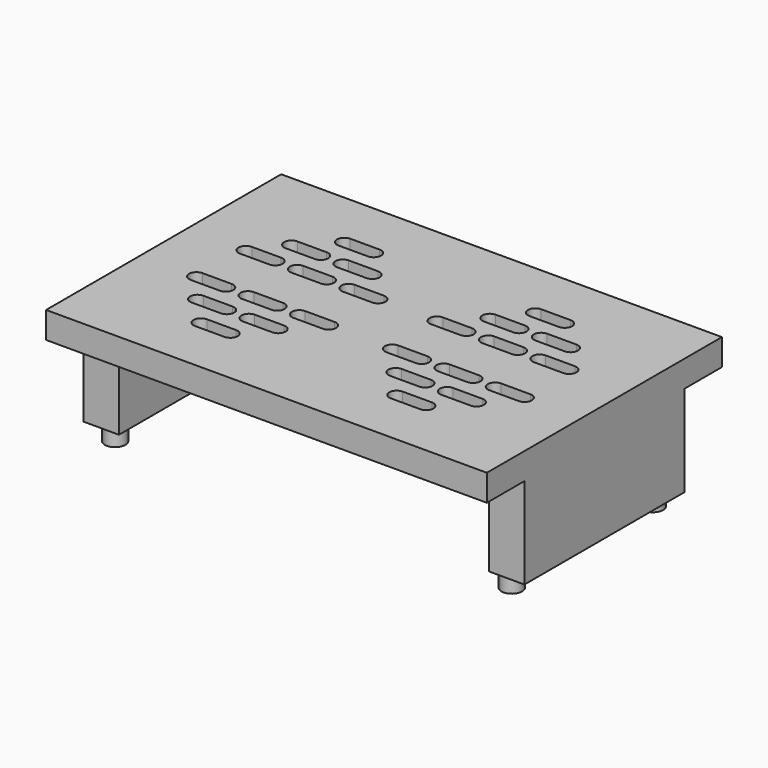
from build123d import *

# Parameters (mm, degrees)
SKETCH_W        = 150
SKETCH_H        = 100
PAD_DEPTH       = 40
SKETCH001_R     = 3.5
PAD001_DEPTH    = 5
SKETCH002_W     = 16
SKETCH002_H     = 31
POCKET_DEPTH    = 150
SKETCH003_W     = 126
SKETCH003_H     = 26
POCKET001_DEPTH = 100
POCKET002_DEPTH = 17
POCKET003_DEPTH = 18


with BuildPart() as part:
    # Sketch → Pad (new body)
    with BuildSketch(Plane.XY):
        Rectangle(SKETCH_W, SKETCH_H)
    extrude(amount=PAD_DEPTH)

    # Sketch001 (on Face5 of Pad) → Pad001 (join)
    with BuildSketch(Plane(origin=(0, 0, 0), x_dir=(1, 0, 0), z_dir=(0, 0, -1))):
        with Locations((67.5, 30)):
            Circle(SKETCH001_R)
        with Locations((67.5, -30)):
            Circle(SKETCH001_R)
        with Locations((-67.5, -30)):
            Circle(SKETCH001_R)
        with Locations((-67.5, 30)):
            Circle(SKETCH001_R)
    extrude(amount=PAD001_DEPTH)

    # Sketch002 (on Face3 of Pad001) → Pocket (cut)
    with BuildSketch(Plane.YZ.offset(75)):
        with Locations((42, 15.5)):
            Rectangle(SKETCH002_W, SKETCH002_H)
        with Locations((-42, 15.5)):
            Rectangle(SKETCH002_W, SKETCH002_H)
    extrude(amount=-POCKET_DEPTH, mode=Mode.SUBTRACT)

    # Sketch003 (on Face8 of Pocket) → Pocket001 (cut)
    with BuildSketch(Plane.XZ.offset(34)):
        with Locations((0, 13)):
            Rectangle(SKETCH003_W, SKETCH003_H)
    extrude(amount=-POCKET001_DEPTH, mode=Mode.SUBTRACT)

    # Sketch004 (on Face4 of Pocket001) → Pocket002 (cut)
    with BuildSketch(Plane.XY.offset(40)):
        with BuildLine():
            ThreePointArc((37.5, 22.5), (35, 20), (37.5, 17.5))
            Line((37.5, 17.5), (47.5, 17.5))
            ThreePointArc((47.5, 17.5), (50, 20), (47.5, 22.5))
            Line((47.5, 22.5), (37.5, 22.5))
        make_face()
        with BuildLine():
            ThreePointArc((45, 12.5), (42.5, 10), (45, 7.5))
            Line((45, 7.5), (55, 7.5))
            ThreePointArc((55, 7.5), (57.5, 10), (55, 12.5))
            Line((55, 12.5), (45, 12.5))
        make_face()
        with BuildLine():
            ThreePointArc((27.5, 32.5), (25, 30), (27.5, 27.5))
            Line((27.5, 27.5), (37.5, 27.5))
            ThreePointArc((37.5, 27.5), (40, 30), (37.5, 32.5))
            Line((37.5, 32.5), (27.5, 32.5))
        make_face()
        with BuildLine():
            ThreePointArc((20, 22.5), (17.5, 20), (20, 17.5))
            Line((20, 17.5), (30, 17.5))
            ThreePointArc((30, 17.5), (32.5, 20), (30, 22.5))
            Line((30, 22.5), (20, 22.5))
        make_face()
        with BuildLine():
            ThreePointArc((10, 12.5), (7.5, 10), (10, 7.5))
            Line((10, 7.5), (20, 7.5))
            ThreePointArc((20, 7.5), (22.5, 10), (20, 12.5))
            Line((20, 12.5), (10, 12.5))
        make_face()
        with BuildLine():
            ThreePointArc((27.5, 12.5), (25, 10), (27.5, 7.5))
            Line((27.5, 7.5), (37.5, 7.5))
            ThreePointArc((37.5, 7.5), (40, 10), (37.5, 12.5))
            Line((37.5, 12.5), (27.5, 12.5))
        make_face()
    pocket002 = extrude(amount=-POCKET002_DEPTH, mode=Mode.SUBTRACT)

    # Sketch005 (on Face4 of Pocket002) → Pocket003 (cut)
    with BuildSketch(Plane.XY.offset(40)):
        with BuildLine():
            ThreePointArc((10.816809, -7.5), (8.316809, -10), (10.816809, -12.5))
            Line((10.816809, -12.5), (20.816809, -12.5))
            ThreePointArc((20.816809, -12.5), (23.316809, -10), (20.816809, -7.5))
            Line((20.816809, -7.5), (10.816809, -7.5))
        make_face()
        with BuildLine():
            ThreePointArc((28.316809, -7.5), (25.816809, -10), (28.316809, -12.5))
            Line((28.316809, -12.5), (38.316809, -12.5))
            ThreePointArc((38.316809, -12.5), (40.816809, -10), (38.316809, -7.5))
            Line((38.316809, -7.5), (28.316809, -7.5))
        make_face()
        with BuildLine():
            ThreePointArc((45.816809, -7.5), (43.316809, -10), (45.816809, -12.5))
            Line((45.816809, -12.5), (55.816809, -12.5))
            ThreePointArc((55.816809, -12.5), (58.316809, -10), (55.816809, -7.5))
            Line((55.816809, -7.5), (45.816809, -7.5))
        make_face()
        with BuildLine():
            ThreePointArc((20, -17.5), (17.5, -20), (20, -22.5))
            Line((20, -22.5), (30, -22.5))
            ThreePointArc((30, -22.5), (32.5, -20), (30, -17.5))
            Line((30, -17.5), (20, -17.5))
        make_face()
        with BuildLine():
            ThreePointArc((37.5, -17.5), (35, -20), (37.5, -22.5))
            Line((37.5, -22.5), (47.5, -22.5))
            ThreePointArc((47.5, -22.5), (50, -20), (47.5, -17.5))
            Line((47.5, -17.5), (37.5, -17.5))
        make_face()
        with BuildLine():
            ThreePointArc((28.316809, -27.5), (25.816809, -30), (28.316809, -32.5))
            Line((28.316809, -32.5), (38.316809, -32.5))
            ThreePointArc((38.316809, -32.5), (40.816809, -30), (38.316809, -27.5))
            Line((38.316809, -27.5), (28.316809, -27.5))
        make_face()
    pocket003 = extrude(amount=-POCKET003_DEPTH, mode=Mode.SUBTRACT)

    # Mirrored: Pocket002 across Sketch004 V_Axis
    add(pocket002.mirror(Plane(origin=(0, 0, 40), x_dir=(0, 0, 1), z_dir=(1, 0, 0))), mode=Mode.SUBTRACT)

    # Mirrored001: Pocket003 across Sketch005 V_Axis
    add(pocket003.mirror(Plane(origin=(0, 0, 40), x_dir=(0, 0, 1), z_dir=(1, 0, 0))), mode=Mode.SUBTRACT)


solid = part.part
